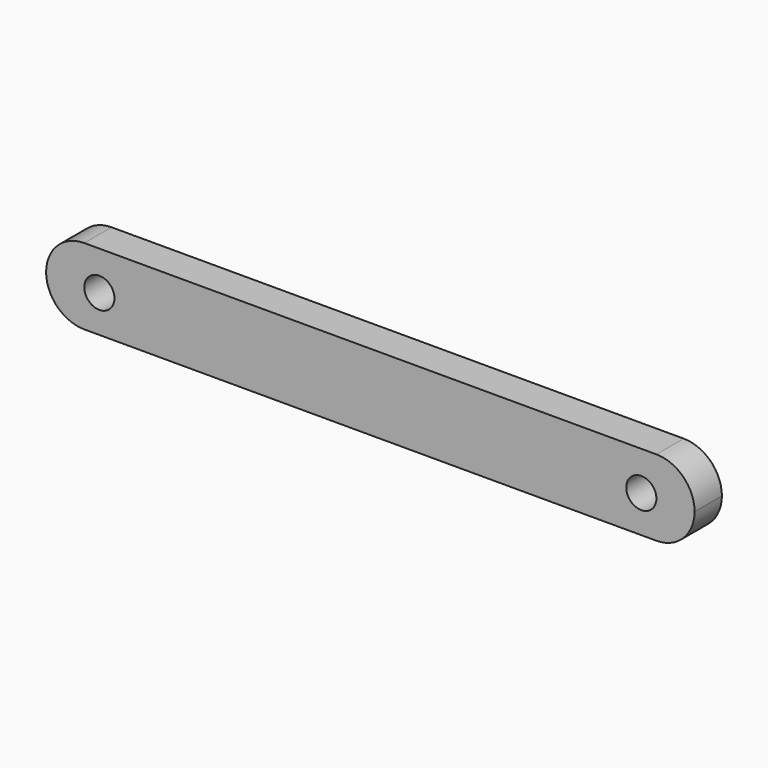
from build123d import *

# Parameters (mm, degrees)
F1_DEPTH = 5.6642
F0_R     = 2.5019


with BuildPart() as f1:
    # F0 (on Front) → F1 (new body)
    with BuildSketch(Plane.XZ):
        with BuildLine():
            ThreePointArc((75.9537016329, 0.1928798135), (75.9536693652, 0.1726363284), (75.9535725625, 0.152393049))
            ThreePointArc((75.9535725625, 0.152393049), (75.9536693652, 0.1321497696), (75.9537016329, 0.1119062845))
            Line((75.9537016329, 0.1119062845), (75.9537016329, 0.1928798135))
        make_face()
    extrude(amount=F1_DEPTH)


with BuildPart() as f1b:
    # F0 (on Front) → F1, piece 2 (new body)
    with BuildSketch(Plane.XZ):
        with BuildLine():
            ThreePointArc((-31.6660983671, 0.1119062845), (-31.6660660994, 0.1321497696), (-31.6659692966, 0.152393049))
            ThreePointArc((-31.6659692966, 0.152393049), (-31.6660660994, 0.1726363284), (-31.6660983671, 0.1928798135))
            Line((-31.6660983671, 0.1928798135), (-31.6660983671, 0.1119062845))
        make_face()
    extrude(amount=F1_DEPTH)


with BuildPart() as f1c:
    # F0 (on Front) → F1, piece 3 (new body)
    with BuildSketch(Plane.XZ):
        with BuildLine():
            Line((69.6037016329, 6.4619062845), (-25.3160983671, 6.4619062845))
            ThreePointArc((-25.3160983671, 6.4619062845), (-29.7918893053, 4.6163258339), (-31.6659692966, 0.152393049))
            ThreePointArc((-31.6659692966, 0.152393049), (-29.7918893053, -4.3115397359), (-25.3160983671, -6.1571201865))
            Line((-25.3160983671, -6.1571201865), (69.6037016329, -6.1571201865))
            ThreePointArc((69.6037016329, -6.1571201865), (74.0794925711, -4.3115397359), (75.9535725625, 0.152393049))
            ThreePointArc((75.9535725625, 0.152393049), (74.0794925711, 4.6163258339), (69.6037016329, 6.4619062845))
        make_face()
        with Locations((-22.8216443211, 0)):
            Circle(F0_R, mode=Mode.SUBTRACT)
        with Locations((67.1092475869, 0)):
            Circle(F0_R, mode=Mode.SUBTRACT)
    extrude(amount=F1_DEPTH)


solid = Compound([f1.part, f1b.part, f1c.part])
